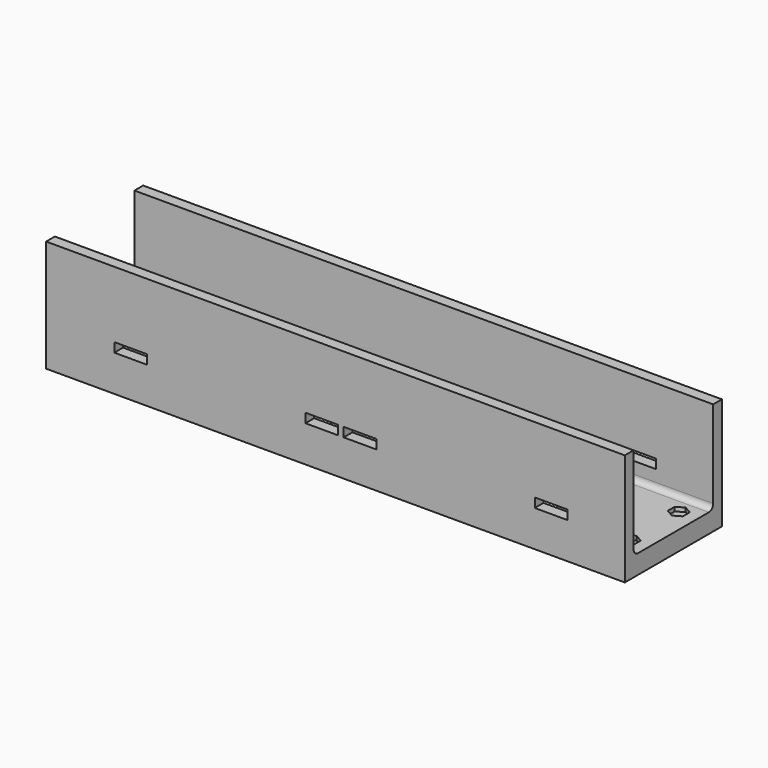
from build123d import *

# Parameters (mm, degrees)
FACEPLATESKETCH_W      = 212
FACEPLATESKETCH_H      = 44.45
FACEPLATEPAD_DEPTH     = 4
BOTTOMWALLSKETCH_W     = 212
BOTTOMWALLSKETCH_H     = 4
BOTTOMWALLPAD_DEPTH    = 34
TOPWALLSKETCH_W        = 212
TOPWALLSKETCH_H        = 4
TOPWALLPAD_DEPTH       = 34
LIPBLOCKSKETCH_W       = 212
LIPBLOCKSKETCH_H       = 44.45
LIPBLOCKPAD_DEPTH      = 3
LIPPOCKETSKETCH_W      = 206
LIPPOCKETSKETCH_H      = 38.45
LIPPOCKET_DEPTH        = 3
JOINTHOLESSKETCH_R     = 1.6
JOINTHOLESPOCKET_DEPTH = 3.001
NUTRECESSPOCKET_DEPTH  = 1.5
BOXCUTOUTSKETCH_W      = 57
BOXCUTOUTSKETCH_H      = 31
BOXCUTOUTPOCKET_DEPTH  = 38.001
WALLFILLETS_R          = 2
TOPSLOTSKETCH_W        = 12
TOPSLOTSKETCH_H        = 3.4
TOPSLOTPOCKET_DEPTH    = 44.451


with BuildPart() as part:
    # FacePlateSketch → FacePlatePad (new body)
    with BuildSketch(Plane.XY):
        with Locations((106, 22.225)):
            Rectangle(FACEPLATESKETCH_W, FACEPLATESKETCH_H)
    extrude(amount=FACEPLATEPAD_DEPTH)

    # BottomWallSketch (on Face6 of FacePlatePad) → BottomWallPad (join)
    with BuildSketch(Plane.XY.offset(4)):
        with Locations((106, 2)):
            Rectangle(BOTTOMWALLSKETCH_W, BOTTOMWALLSKETCH_H)
    extrude(amount=BOTTOMWALLPAD_DEPTH)

    # TopWallSketch (on Face6 of FacePlatePad) → TopWallPad (join)
    with BuildSketch(Plane.XY.offset(4)):
        with Locations((106, 42.45)):
            Rectangle(TOPWALLSKETCH_W, TOPWALLSKETCH_H)
    extrude(amount=TOPWALLPAD_DEPTH)

    # LipBlockSketch → LipBlockPad (join)
    with BuildSketch(Plane.XY):
        with Locations((106, 22.225)):
            Rectangle(LIPBLOCKSKETCH_W, LIPBLOCKSKETCH_H)
    extrude(amount=-LIPBLOCKPAD_DEPTH)

    # LipPocketSketch → LipPocket (cut)
    with BuildSketch(Plane.XY):
        with Locations((106, 22.225)):
            Rectangle(LIPPOCKETSKETCH_W, LIPPOCKETSKETCH_H)
    extrude(amount=-LIPPOCKET_DEPTH, mode=Mode.SUBTRACT)

    # JointHolesSketch → JointHolesPocket (cut, through all)
    with BuildSketch(Plane.XY):
        with Locations((7, 11)):
            Circle(JOINTHOLESSKETCH_R)
        with Locations((205, 11)):
            Circle(JOINTHOLESSKETCH_R)
        with Locations((7, 33.45)):
            Circle(JOINTHOLESSKETCH_R)
        with Locations((205, 33.45)):
            Circle(JOINTHOLESSKETCH_R)
    extrude(amount=-JOINTHOLESPOCKET_DEPTH, mode=Mode.SUBTRACT)

    # NutRecessSketch (on Face6 of FacePlatePad) → NutRecessPocket (cut)
    with BuildSketch(Plane.XY.offset(4)):
        Polygon((9.75, 12.587713), (7, 14.175426), (4.25, 12.587713), (4.25, 9.412287), (7, 7.824574), (9.75, 9.412287), align=None)
        Polygon((207.75, 12.587713), (205, 14.175426), (202.25, 12.587713), (202.25, 9.412287), (205, 7.824574), (207.75, 9.412287), align=None)
        Polygon((9.75, 35.037713), (7, 36.625426), (4.25, 35.037713), (4.25, 31.862287), (7, 30.274574), (9.75, 31.862287), align=None)
        Polygon((207.75, 35.037713), (205, 36.625426), (202.25, 35.037713), (202.25, 31.862287), (205, 30.274574), (207.75, 31.862287), align=None)
    extrude(amount=-NUTRECESSPOCKET_DEPTH, mode=Mode.SUBTRACT)

    # BoxCutoutSketch → BoxCutoutPocket (cut, through all)
    with BuildSketch(Plane.XY):
        with Locations((64.5, 22.5)):
            Rectangle(BOXCUTOUTSKETCH_W, BOXCUTOUTSKETCH_H)
        with Locations((147.5, 22.5)):
            Rectangle(BOXCUTOUTSKETCH_W, BOXCUTOUTSKETCH_H)
    extrude(amount=BOXCUTOUTPOCKET_DEPTH, mode=Mode.SUBTRACT)

    # WallFillets
    wallfillets_edges = [part.edges().sort_by_distance(p)[0] for p in [
        (106, 4, 4),
        (106, 40.45, 4),
    ]]
    fillet(wallfillets_edges, radius=WALLFILLETS_R)

    # TopSlotSketch (on Face10 of WallFillets) → TopSlotPocket (cut, through all)
    with BuildSketch(Plane(origin=(0, 44.45, 0), x_dir=(-1, 0, 0), z_dir=(0, 1, 0))):
        with Locations((-31, 12)):
            Rectangle(TOPSLOTSKETCH_W, TOPSLOTSKETCH_H)
        with Locations((-101, 12)):
            Rectangle(TOPSLOTSKETCH_W, TOPSLOTSKETCH_H)
        with Locations((-115, 12)):
            Rectangle(TOPSLOTSKETCH_W, TOPSLOTSKETCH_H)
        with Locations((-185, 12)):
            Rectangle(TOPSLOTSKETCH_W, TOPSLOTSKETCH_H)
    extrude(amount=-TOPSLOTPOCKET_DEPTH, mode=Mode.SUBTRACT)


solid = part.part
